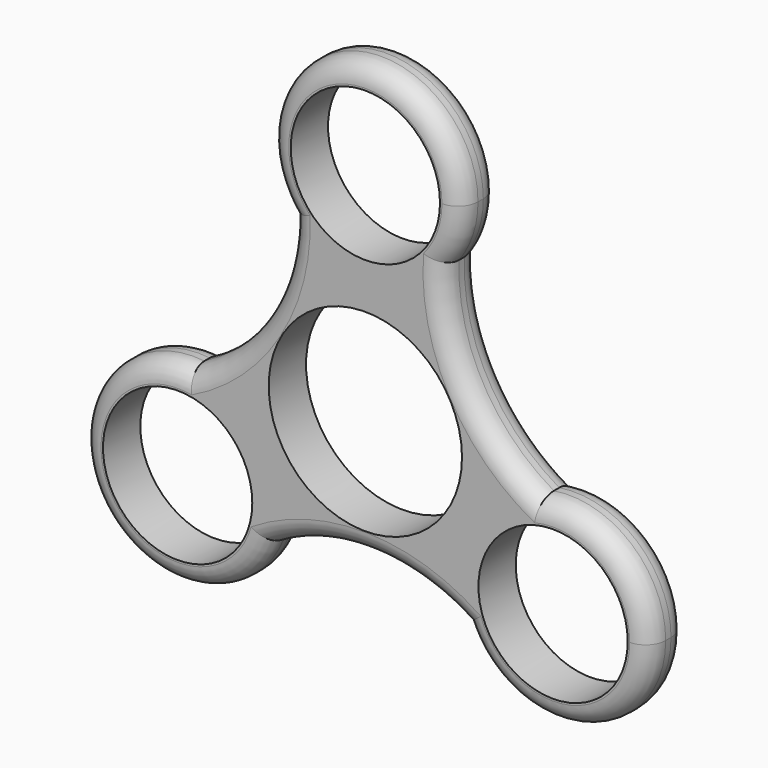
from build123d import *

# Parameters (mm, degrees)
F0_R     = 11.2
F0_R_2   = 14.5
F1_DEPTH = 7
F2_R     = 3


with BuildPart() as f1:
    # F0 (on Front) → F1 (new body)
    with BuildSketch(Plane.XZ):
        with BuildLine():
            ThreePointArc((11.6707485893, 23.9182870793), (13.7745390947, 27.9941221792), (14.5, 32.5231477618))
            ThreePointArc((14.5, 32.5231477618), (-4.8428473756, 46.1905114175), (-11.265079903, 23.3936365603))
            ThreePointArc((-11.265079903, 23.3936365603), (0.3315966111, 18.0269398547), (11.6707485893, 23.9182870793))
        make_face()
        with Locations((0, 32.5231477618)):
            Circle(F0_R, mode=Mode.SUBTRACT)
        with BuildLine():
            ThreePointArc((11.6707485893, 23.9182870793), (0.3315966111, 18.0269398547), (-11.265079903, 23.3936365603))
            ThreePointArc((-11.265079903, 23.3936365603), (-15.3687019287, 8.628590801), (-26.5492185203, -1.8519787801))
            ThreePointArc((-26.5492185203, -1.8519787801), (-17.3563514165, -6.5969858907), (-13.6658721728, -16.2615738809))
            ThreePointArc((-13.6658721728, -16.2615738809), (-13.9081643564, -18.9012268549), (-14.6269435966, -21.4526636518))
            ThreePointArc((-14.6269435966, -21.4526636518), (0.2117721318, -17.6239816939), (14.878469931, -22.0663082992))
            ThreePointArc((14.878469931, -22.0663082992), (15.4459895611, -9.3006410164), (25.8920234996, -1.9409729085))
            ThreePointArc((25.8920234996, -1.9409729085), (15.1569297969, 8.9953908929), (11.6707485893, 23.9182870793))
        make_face()
        Circle(F0_R_2, mode=Mode.SUBTRACT)
        with BuildLine():
            ThreePointArc((-13.6658721728, -16.2615738809), (-17.3563514165, -6.5969858907), (-26.5492185203, -1.8519787801))
            ThreePointArc((-26.5492185203, -1.8519787801), (-40.5541581733, -23.7968489236), (-14.6269435966, -21.4526636518))
            ThreePointArc((-14.6269435966, -21.4526636518), (-13.9081643564, -18.9012268549), (-13.6658721728, -16.2615738809))
        make_face()
        with Locations((-28.1658721728, -16.2615738809)):
            Circle(F0_R, mode=Mode.SUBTRACT)
        with BuildLine():
            ThreePointArc((42.6658721728, -16.2615738809), (37.5807326136, -5.2338631992), (25.8920234996, -1.9409729085))
            ThreePointArc((25.8920234996, -1.9409729085), (15.4459895611, -9.3006410164), (14.878469931, -22.0663082992))
            ThreePointArc((14.878469931, -22.0663082992), (31.1308905112, -30.4551874537), (42.6658721728, -16.2615738809))
        make_face()
        with Locations((28.1658721728, -16.2615738809)):
            Circle(F0_R, mode=Mode.SUBTRACT)
    extrude(amount=F1_DEPTH)

    # F2
    f2_edges = [f1.edges().sort_by_distance(p)[0] for p in [
        (0.211772, -7, -17.623982),
        (15.15693, -7, 8.995391),
        (-15.368702, -7, 8.628591),
        (40.885755, -7, -23.222507),
        (-40.554158, -7, -23.796849),
        (-0.331597, -7, 47.019356),
        (-15.368702, 0, 8.628591),
        (15.15693, 0, 8.995391),
        (0.211772, 0, -17.623982),
        (-0.331597, 0, 47.019356),
        (-40.554158, 0, -23.796849),
        (40.885755, 0, -23.222507),
    ]]
    fillet(f2_edges, radius=F2_R)


solid = f1.part
